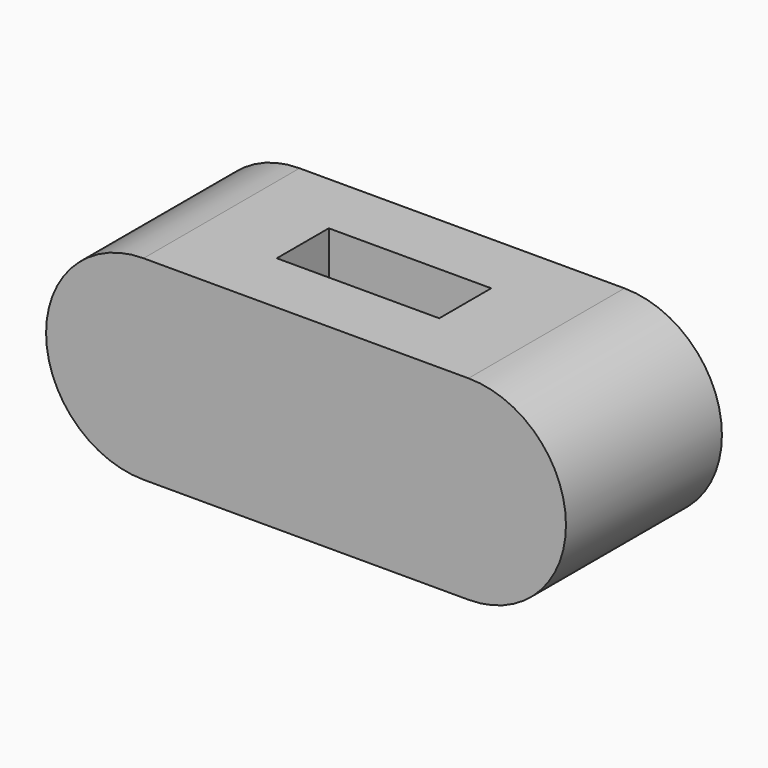
from build123d import *

# Parameters (mm, degrees)
BOX001_W          = 5
BOX001_H          = 2
BOX001_DEPTH      = 6
CYLINDER001_R     = 3
CYLINDER001_DEPTH = 6
BOX_W             = 10
BOX_H             = 6
BOX_DEPTH         = 6
CYLINDER_R        = 3
CYLINDER_DEPTH    = 6


with BuildPart() as insert:
    # Box001 → Box001 (new body)
    with BuildSketch(Plane(origin=(-2.5, -1, 0), x_dir=(1, 0, 0), z_dir=(0, 0, 1))):
        with Locations((2.5, 1)):
            Rectangle(BOX001_W, BOX001_H)
    extrude(amount=BOX001_DEPTH)


with BuildPart() as obj1:
    # Cylinder001 → Cylinder001 (new body)
    with BuildSketch(Plane(origin=(5, 3, 0), x_dir=(1, 0, 0), z_dir=(0, -1, 0))):
        Circle(CYLINDER001_R)
    extrude(amount=CYLINDER001_DEPTH)


with BuildPart() as obj2:
    # Box → Box (new body)
    with BuildSketch(Plane(origin=(-5, -3, -3), x_dir=(1, 0, 0), z_dir=(0, 0, 1))):
        with Locations((5, 3)):
            Rectangle(BOX_W, BOX_H)
    extrude(amount=BOX_DEPTH)


with BuildPart() as obj3:
    # Cylinder → Cylinder (new body)
    with BuildSketch(Plane(origin=(-5, 3, 0), x_dir=(1, 0, 0), z_dir=(0, -1, 0))):
        Circle(CYLINDER_R)
    extrude(amount=CYLINDER_DEPTH)

    # Fusion: union obj1, obj2
    add(obj1.part)
    add(obj2.part)


with BuildPart() as obj3_1:
    # Fusion placement: moved
    add(obj3.part.moved(Location((0, 0, 3))))

    # Cut: cut Insert
    add(insert.part, mode=Mode.SUBTRACT)


solid = obj3_1.part
